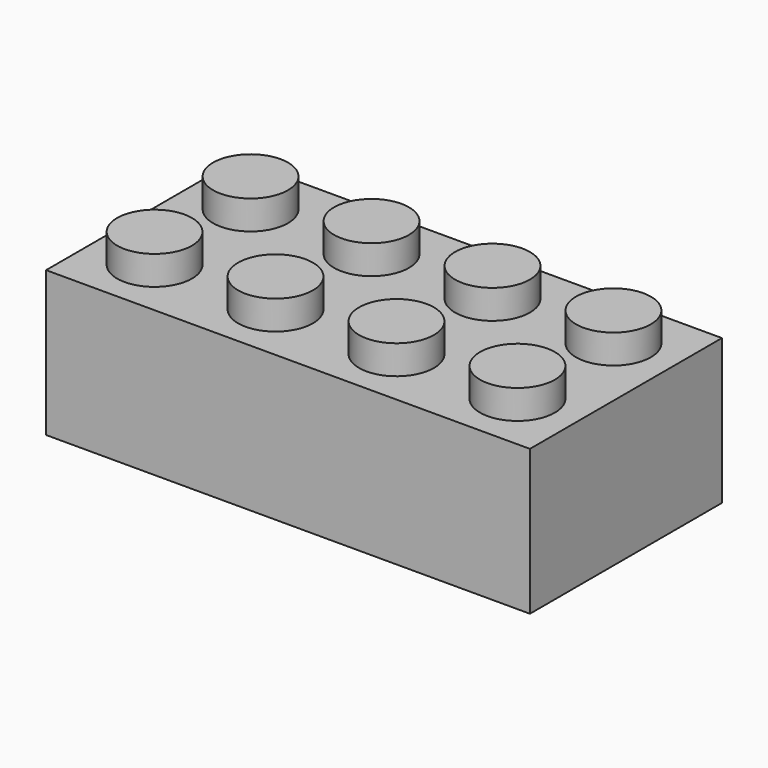
from build123d import *

# Parameters (mm, degrees)
F0_W     = 31.75
F0_H     = 11.43
F1_DEPTH = 15.748
F2_W     = 31.75
F2_H     = 15.748
F2_R     = 2.45745
F3_DEPTH = 1.905
F5_DEPTH = 8.89
F4_W     = 29.21
F4_H     = 13.208
F6_DEPTH = 8.255


with BuildPart() as f1:
    # F0 (on Front) → F1 (new body)
    with BuildSketch(Plane.XZ):
        with Locations((-1.9367001951, 19.6771935656)):
            Rectangle(F0_W, F0_H)
    extrude(amount=F1_DEPTH)

    # F2 (on face) → F3 (cut)
    with BuildSketch(Plane.XY.offset(25.3921935656)):
        with Locations((-1.9367001951, -7.874)):
            Rectangle(F2_W, F2_H)
        with Locations((-13.8429501951, -11.811)):
            Circle(F2_R, mode=Mode.SUBTRACT)
        with Locations((-5.9054501951, -11.811)):
            Circle(F2_R, mode=Mode.SUBTRACT)
        with Locations((2.0320498049, -11.811)):
            Circle(F2_R, mode=Mode.SUBTRACT)
        with Locations((9.9695498049, -11.811)):
            Circle(F2_R, mode=Mode.SUBTRACT)
        with Locations((-13.8429501951, -3.937)):
            Circle(F2_R, mode=Mode.SUBTRACT)
        with Locations((-5.9054501951, -3.937)):
            Circle(F2_R, mode=Mode.SUBTRACT)
        with Locations((2.0320498049, -3.937)):
            Circle(F2_R, mode=Mode.SUBTRACT)
        with Locations((9.9695498049, -3.937)):
            Circle(F2_R, mode=Mode.SUBTRACT)
    extrude(amount=-F3_DEPTH, mode=Mode.SUBTRACT)

    # F4 (on face) → F5 (cut)
    with BuildSketch(Plane(origin=(0, 0, 13.9621935656), x_dir=(1, 0, 0), z_dir=(0, 0, -1))):
        with BuildLine():
            ThreePointArc((11.2395498049, 3.937), (10.867575417, 4.8350256121), (9.9695498049, 5.207))
            ThreePointArc((9.9695498049, 5.207), (9.0715241928, 3.0389743879), (11.2395498049, 3.937))
        make_face()
        with BuildLine():
            ThreePointArc((11.2395498049, 11.811), (9.0715241928, 12.7090256121), (9.9695498049, 10.541))
            ThreePointArc((9.9695498049, 10.541), (10.867575417, 10.9129743879), (11.2395498049, 11.811))
        make_face()
        with BuildLine():
            ThreePointArc((3.3020498049, 11.811), (1.1340241928, 12.7090256121), (2.0320498049, 10.541))
            ThreePointArc((2.0320498049, 10.541), (2.930075417, 10.9129743879), (3.3020498049, 11.811))
        make_face()
        with BuildLine():
            ThreePointArc((3.3020498049, 3.937), (2.930075417, 4.8350256121), (2.0320498049, 5.207))
            ThreePointArc((2.0320498049, 5.207), (1.1340241928, 3.0389743879), (3.3020498049, 3.937))
        make_face()
        with BuildLine():
            ThreePointArc((-4.6354501951, 11.811), (-6.8034758072, 12.7090256121), (-5.9054501951, 10.541))
            ThreePointArc((-5.9054501951, 10.541), (-5.007424583, 10.9129743879), (-4.6354501951, 11.811))
        make_face()
        with BuildLine():
            ThreePointArc((-4.6354501951, 3.937), (-5.007424583, 4.8350256121), (-5.9054501951, 5.207))
            ThreePointArc((-5.9054501951, 5.207), (-6.8034758072, 3.0389743879), (-4.6354501951, 3.937))
        make_face()
        with BuildLine():
            ThreePointArc((-13.8429501951, 10.541), (-12.944924583, 10.9129743879), (-12.5729501951, 11.811))
            ThreePointArc((-12.5729501951, 11.811), (-14.7409758072, 12.7090256121), (-13.8429501951, 10.541))
        make_face()
        with BuildLine():
            ThreePointArc((-12.5729501951, 3.937), (-12.944924583, 4.8350256121), (-13.8429501951, 5.207))
            ThreePointArc((-13.8429501951, 5.207), (-14.7409758072, 3.0389743879), (-12.5729501951, 3.937))
        make_face()
    extrude(amount=-F5_DEPTH, mode=Mode.SUBTRACT)

    # F4 (on face) → F6 (cut)
    with BuildSketch(Plane(origin=(0, 0, 13.9621935656), x_dir=(1, 0, 0), z_dir=(0, 0, -1))):
        with Locations((-1.9367001951, 7.874)):
            Rectangle(F4_W, F4_H)
        with BuildLine():
            ThreePointArc((-12.5729501951, 3.937), (-14.7409758072, 3.0389743879), (-13.8429501951, 5.207))
            ThreePointArc((-13.8429501951, 5.207), (-12.944924583, 4.8350256121), (-12.5729501951, 3.937))
        make_face(mode=Mode.SUBTRACT)
        with BuildLine():
            ThreePointArc((-4.6354501951, 3.937), (-6.8034758072, 3.0389743879), (-5.9054501951, 5.207))
            ThreePointArc((-5.9054501951, 5.207), (-5.007424583, 4.8350256121), (-4.6354501951, 3.937))
        make_face(mode=Mode.SUBTRACT)
        with BuildLine():
            ThreePointArc((3.3020498049, 3.937), (1.1340241928, 3.0389743879), (2.0320498049, 5.207))
            ThreePointArc((2.0320498049, 5.207), (2.930075417, 4.8350256121), (3.3020498049, 3.937))
        make_face(mode=Mode.SUBTRACT)
        with BuildLine():
            ThreePointArc((11.2395498049, 3.937), (9.0715241928, 3.0389743879), (9.9695498049, 5.207))
            ThreePointArc((9.9695498049, 5.207), (10.867575417, 4.8350256121), (11.2395498049, 3.937))
        make_face(mode=Mode.SUBTRACT)
        with BuildLine():
            ThreePointArc((-7.0167001951, 7.874), (-9.8742001951, 5.0165), (-12.7317001951, 7.874))
            ThreePointArc((-12.7317001951, 7.874), (-9.8742001951, 10.7315), (-7.0167001951, 7.874))
        make_face(mode=Mode.SUBTRACT)
        with BuildLine():
            ThreePointArc((-13.8429501951, 10.541), (-14.7409758072, 12.7090256121), (-12.5729501951, 11.811))
            ThreePointArc((-12.5729501951, 11.811), (-12.944924583, 10.9129743879), (-13.8429501951, 10.541))
        make_face(mode=Mode.SUBTRACT)
        with BuildLine():
            ThreePointArc((-4.6354501951, 11.811), (-5.007424583, 10.9129743879), (-5.9054501951, 10.541))
            ThreePointArc((-5.9054501951, 10.541), (-6.8034758072, 12.7090256121), (-4.6354501951, 11.811))
        make_face(mode=Mode.SUBTRACT)
        with BuildLine():
            ThreePointArc((0.9207998049, 7.874), (-1.9367001951, 5.0165), (-4.7942001951, 7.874))
            ThreePointArc((-4.7942001951, 7.874), (-1.9367001951, 10.7315), (0.9207998049, 7.874))
        make_face(mode=Mode.SUBTRACT)
        with BuildLine():
            ThreePointArc((8.8582998049, 7.874), (6.0007998049, 5.0165), (3.1432998049, 7.874))
            ThreePointArc((3.1432998049, 7.874), (6.0007998049, 10.7315), (8.8582998049, 7.874))
        make_face(mode=Mode.SUBTRACT)
        with BuildLine():
            ThreePointArc((3.3020498049, 11.811), (2.930075417, 10.9129743879), (2.0320498049, 10.541))
            ThreePointArc((2.0320498049, 10.541), (1.1340241928, 12.7090256121), (3.3020498049, 11.811))
        make_face(mode=Mode.SUBTRACT)
        with BuildLine():
            ThreePointArc((11.2395498049, 11.811), (10.867575417, 10.9129743879), (9.9695498049, 10.541))
            ThreePointArc((9.9695498049, 10.541), (9.0715241928, 12.7090256121), (11.2395498049, 11.811))
        make_face(mode=Mode.SUBTRACT)
        with BuildLine():
            Line((8.4582498049, 7.874), (3.5433498049, 7.874))
            ThreePointArc((3.5433498049, 7.874), (6.0007998049, 5.41655), (8.4582498049, 7.874))
        make_face()
        with BuildLine():
            ThreePointArc((8.4582498049, 7.874), (6.0007998049, 10.33145), (3.5433498049, 7.874))
            Line((3.5433498049, 7.874), (8.4582498049, 7.874))
        make_face()
        with BuildLine():
            Line((0.5207498049, 7.874), (-4.3941501951, 7.874))
            ThreePointArc((-4.3941501951, 7.874), (-1.9367001951, 5.41655), (0.5207498049, 7.874))
        make_face()
        with BuildLine():
            ThreePointArc((0.5207498049, 7.874), (-1.9367001951, 10.33145), (-4.3941501951, 7.874))
            Line((-4.3941501951, 7.874), (0.5207498049, 7.874))
        make_face()
        with BuildLine():
            Line((-7.4167501951, 7.874), (-12.3316501951, 7.874))
            ThreePointArc((-12.3316501951, 7.874), (-9.8742001951, 5.41655), (-7.4167501951, 7.874))
        make_face()
        with BuildLine():
            ThreePointArc((-7.4167501951, 7.874), (-9.8742001951, 10.33145), (-12.3316501951, 7.874))
            Line((-12.3316501951, 7.874), (-7.4167501951, 7.874))
        make_face()
    extrude(amount=-F6_DEPTH, mode=Mode.SUBTRACT)


solid = f1.part
